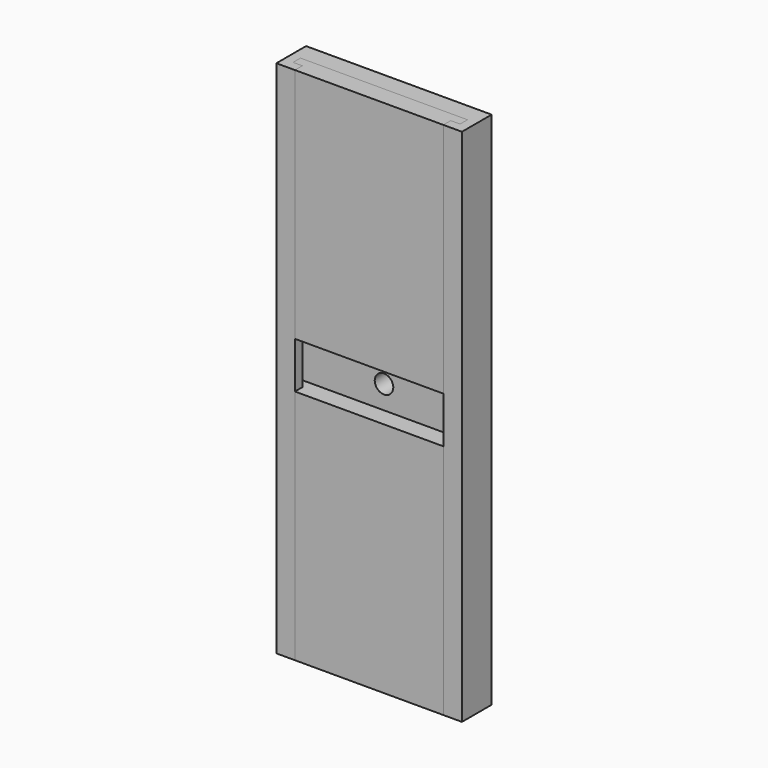
from build123d import *

# Parameters (mm, degrees)
F1_DEPTH      = 280
F1_DEPTH_BACK = 280
F2_R          = 10
F3_DEPTH      = 20
F5_DEPTH      = 255
F7_DEPTH      = 255


with BuildPart() as f1:
    # F0 (on Top) → F1 (new body, two sides)
    with BuildSketch(Plane.XY) as f1_sk:
        Polygon((-90, 20), (0, 20), (90, 20), (90, 10), (80, 10), (80, 0), (100, 0), (100, 40), (0, 40), (-100, 40), (-100, 0), (-80, 0), (-80, 10), (-90, 10), align=None)
    extrude(amount=F1_DEPTH)
    extrude(f1_sk.sketch, amount=-F1_DEPTH_BACK)

    # F2 (on face) → F3 (cut)
    with BuildSketch(Plane(origin=(0, 40, 0), x_dir=(-1, 0, 0), z_dir=(0, 1, 0))):
        Circle(F2_R)
    extrude(amount=-F3_DEPTH, mode=Mode.SUBTRACT)


with BuildPart() as f5:
    # F4 (on face) → F5 (new body)
    with BuildSketch(Plane.XY.offset(280)):
        Polygon((90, 20), (-90, 20), (-90, 10), (-80, 10), (-80, 0), (80, 0), (80, 10), (90, 10), align=None)
    extrude(amount=-F5_DEPTH)


with BuildPart() as f7:
    # F6 (on face) → F7 (new body)
    with BuildSketch(Plane(origin=(0, 0, -280), x_dir=(1, 0, 0), z_dir=(0, 0, -1))):
        Polygon((80, 0), (-80, 0), (-80, -10), (-90, -10), (-90, -20), (90, -20), (90, -10), (80, -10), align=None)
    extrude(amount=-F7_DEPTH)


solid = Compound([f1.part, f5.part, f7.part])
